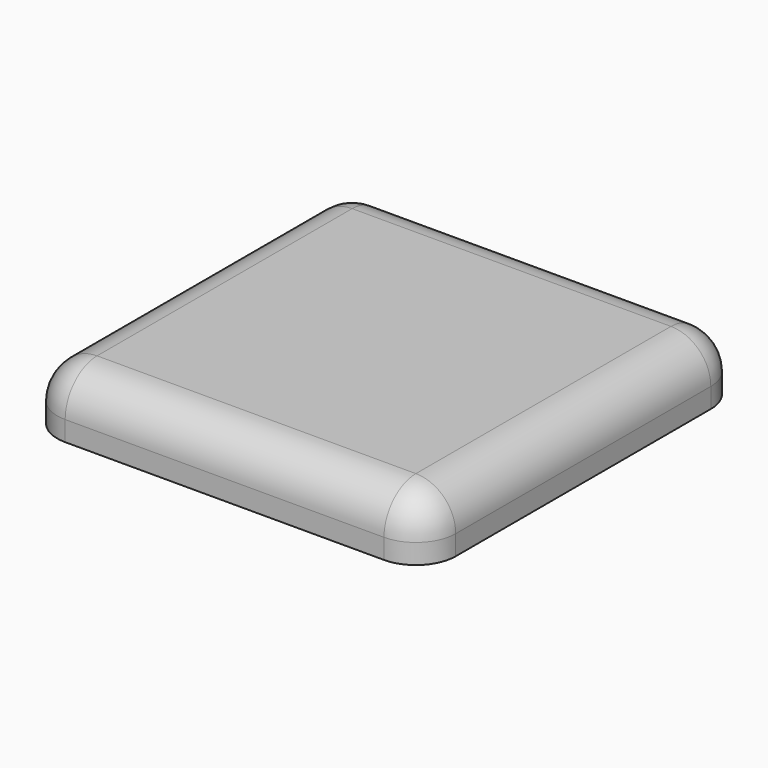
from build123d import *

# Parameters (mm, degrees)
F1_DEPTH = 3
F2_R     = 2


with BuildPart() as f1:
    # F0 (on Top) → F1 (new body)
    with BuildSketch(Plane.XY):
        with BuildLine():
            ThreePointArc((10, 8), (9.4142135624, 9.4142135624), (8, 10))
            Line((8, 10), (-8, 10))
            ThreePointArc((-8, 10), (-9.4142135624, 9.4142135624), (-10, 8))
            Line((-10, 8), (-10, -8))
            ThreePointArc((-10, -8), (-9.4142135624, -9.4142135624), (-8, -10))
            Line((-8, -10), (8, -10))
            ThreePointArc((8, -10), (9.4142135624, -9.4142135624), (10, -8))
            Line((10, -8), (10, 8))
        make_face()
    extrude(amount=F1_DEPTH)

    # F2
    f2_edges = [f1.edges().sort_by_distance(p)[0] for p in [
        (-9.414214, 9.414214, 3),
    ]]
    fillet(f2_edges, radius=F2_R)


solid = f1.part
